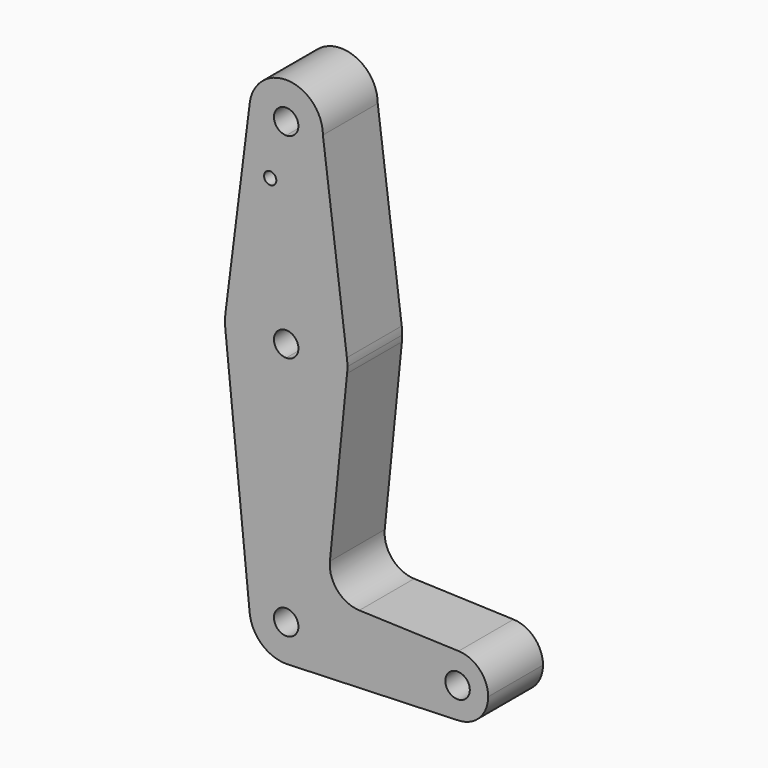
from build123d import *

# Parameters (mm, degrees)
F0_R     = 1.5875
F1_DEPTH = 17.78


with BuildPart() as f1:
    # F0 (on Front) → F1 (new body)
    with BuildSketch(Plane.XZ):
        with BuildLine():
            ThreePointArc((-46.1619771098, 70.2782855404), (-43.8554341456, 62.7874652309), (-36.7116841456, 59.5626605404))
            ThreePointArc((-36.7116841456, 59.5626605404), (-29.9764920548, 62.3524684496), (-27.1866841456, 69.0876605404))
            ThreePointArc((-27.1866841456, 69.0876605404), (-36.1152009036, 78.5939654346), (-46.1619771098, 70.2782855404))
        make_face()
        with BuildLine():
            ThreePointArc((-33.5366841456, 69.0876605404), (-34.4666201153, 66.8425965101), (-36.7116841456, 65.9126605404))
            ThreePointArc((-36.7116841456, 65.9126605404), (-38.9567481759, 71.3327245707), (-33.5366841456, 69.0876605404))
        make_face(mode=Mode.SUBTRACT)
        with BuildLine():
            Line((-36.7116841456, 34.1626605404), (-36.7116841456, 59.5626605404))
            ThreePointArc((-36.7116841456, 59.5626605404), (-43.8554341456, 62.7874652309), (-46.1619771098, 70.2782855404))
            Line((-46.1619771098, 70.2782855404), (-52.4621724193, 20.2720355404))
            ThreePointArc((-52.4621724193, 20.2720355404), (-47.2120096614, 30.1939105404), (-36.7116841456, 34.1626605404))
        make_face()
        with Locations((-40.8617444336, 54.8128605404)):
            Circle(F0_R, mode=Mode.SUBTRACT)
        with BuildLine():
            ThreePointArc((-27.1866841456, 69.0876605404), (-29.9764920548, 62.3524684496), (-36.7116841456, 59.5626605404))
            Line((-36.7116841456, 59.5626605404), (-36.7116841456, 34.1626605404))
            ThreePointArc((-36.7116841456, 34.1626605404), (-26.2204012908, 30.2018793171), (-20.9642272409, 20.2959498708))
            Line((-20.9642272409, 20.2959498708), (-27.1866841456, 69.0876605404))
        make_face()
        with BuildLine():
            Line((-36.7116841456, 21.4626605404), (-36.7116841456, 34.1626605404))
            ThreePointArc((-36.7116841456, 34.1626605404), (-47.2120096614, 30.1939105404), (-52.4621724193, 20.2720355404))
            ThreePointArc((-52.4621724193, 20.2720355404), (-52.585427961, 18.4873660271), (-52.5071097097, 16.7001605404))
            ThreePointArc((-52.5071097097, 16.7001605404), (-47.3609578884, 6.5144454421), (-36.7116841456, 2.4126605404))
            Line((-36.7116841456, 2.4126605404), (-36.7116841456, 15.1126605404))
            ThreePointArc((-36.7116841456, 15.1126605404), (-39.8866841456, 18.2876605404), (-36.7116841456, 21.4626605404))
        make_face()
        with BuildLine():
            ThreePointArc((-20.9642272409, 20.2959498708), (-26.2204012908, 30.2018793171), (-36.7116841456, 34.1626605404))
            Line((-36.7116841456, 34.1626605404), (-36.7116841456, 21.4626605404))
            ThreePointArc((-36.7116841456, 21.4626605404), (-34.4666201153, 20.5327245707), (-33.5366841456, 18.2876605404))
            ThreePointArc((-33.5366841456, 18.2876605404), (-34.4666201153, 16.0425965101), (-36.7116841456, 15.1126605404))
            Line((-36.7116841456, 15.1126605404), (-36.7116841456, 2.4126605404))
            ThreePointArc((-36.7116841456, 2.4126605404), (-26.0624104027, 6.5144454421), (-20.9162585815, 16.7001605404))
            ThreePointArc((-20.9162585815, 16.7001605404), (-20.856590235, 17.4929139863), (-20.8366841456, 18.2876605404))
            ThreePointArc((-20.8366841456, 18.2876605404), (-20.868602006, 19.29382818), (-20.9642272409, 20.2959498708))
        make_face()
        with BuildLine():
            ThreePointArc((-36.7116841456, 2.4126605404), (-47.3609578884, 6.5144454421), (-52.5071097097, 16.7001605404))
            Line((-52.5071097097, 16.7001605404), (-46.188939484, -46.1648394596))
            ThreePointArc((-46.188939484, -46.1648394596), (-43.7756132045, -38.8227752139), (-36.7116841456, -35.6873394596))
            Line((-36.7116841456, -35.6873394596), (-36.7116841456, 2.4126605404))
        make_face()
        with BuildLine():
            ThreePointArc((-20.9162585815, 16.7001605404), (-26.0624104027, 6.5144454421), (-36.7116841456, 2.4126605404))
            Line((-36.7116841456, 2.4126605404), (-36.7116841456, -35.6873394596))
            ThreePointArc((-36.7116841456, -35.6873394596), (-29.9764920548, -38.4771473688), (-27.1866841456, -45.2123394596))
            Line((-27.1866841456, -45.2123394596), (-0.1991841456, -45.2123394596))
            ThreePointArc((-0.1991841456, -45.2123394596), (2.2264053697, -39.5007066757), (8.020721129, -37.279864845))
            Line((8.020721129, -37.279864845), (-17.7433562776, -36.362633879))
            ThreePointArc((-17.7433562776, -36.362633879), (-23.4504801631, -33.6448765637), (-25.3708482771, -27.622447305))
            Line((-25.3708482771, -27.622447305), (-20.9162585815, 16.7001605404))
        make_face()
        with BuildLine():
            ThreePointArc((-36.7116841456, -35.6873394596), (-43.7756132045, -38.8227752139), (-46.188939484, -46.1648394596))
            ThreePointArc((-46.188939484, -46.1648394596), (-42.9740675272, -52.3892593687), (-36.3715055742, -54.7312629039))
            ThreePointArc((-36.3715055742, -54.7312629039), (-29.8572758599, -51.8261667973), (-27.1866841456, -45.2123394596))
            Line((-27.1866841456, -45.2123394596), (-33.5366841456, -45.2123394596))
            ThreePointArc((-33.5366841456, -45.2123394596), (-38.9567481759, -47.4574034899), (-36.7116841456, -42.0373394596))
            Line((-36.7116841456, -42.0373394596), (-36.7116841456, -35.6873394596))
        make_face()
        with BuildLine():
            ThreePointArc((-27.1866841456, -45.2123394596), (-29.9764920548, -38.4771473688), (-36.7116841456, -35.6873394596))
            Line((-36.7116841456, -35.6873394596), (-36.7116841456, -42.0373394596))
            ThreePointArc((-36.7116841456, -42.0373394596), (-34.4666201153, -42.9672754293), (-33.5366841456, -45.2123394596))
            Line((-33.5366841456, -45.2123394596), (-27.1866841456, -45.2123394596))
        make_face()
        with BuildLine():
            ThreePointArc((-0.1991841456, -45.2123394596), (2.226793073, -50.9243463643), (8.0217979973, -53.1447756632))
            ThreePointArc((8.0217979973, -53.1447756632), (13.4503227591, -50.723862241), (15.6758158544, -45.2123394596))
            ThreePointArc((15.6758158544, -45.2123394596), (13.4499486383, -39.7004289749), (8.020721129, -37.279864845))
            ThreePointArc((8.020721129, -37.279864845), (2.2264053697, -39.5007066757), (-0.1991841456, -45.2123394596))
        make_face()
        with BuildLine():
            ThreePointArc((10.9133158544, -45.2123394596), (7.7383158544, -48.3873394596), (4.5633158544, -45.2123394596))
            ThreePointArc((4.5633158544, -45.2123394596), (7.7383158544, -42.0373394596), (10.9133158544, -45.2123394596))
        make_face(mode=Mode.SUBTRACT)
        with BuildLine():
            ThreePointArc((-27.1866841456, -45.2123394596), (-29.8572758599, -51.8261667973), (-36.3715055742, -54.7312629039))
            Line((-36.3715055742, -54.7312629039), (8.0217979973, -53.1447756632))
            ThreePointArc((8.0217979973, -53.1447756632), (2.226793073, -50.9243463643), (-0.1991841456, -45.2123394596))
            Line((-0.1991841456, -45.2123394596), (-27.1866841456, -45.2123394596))
        make_face()
    extrude(amount=F1_DEPTH)


solid = f1.part
